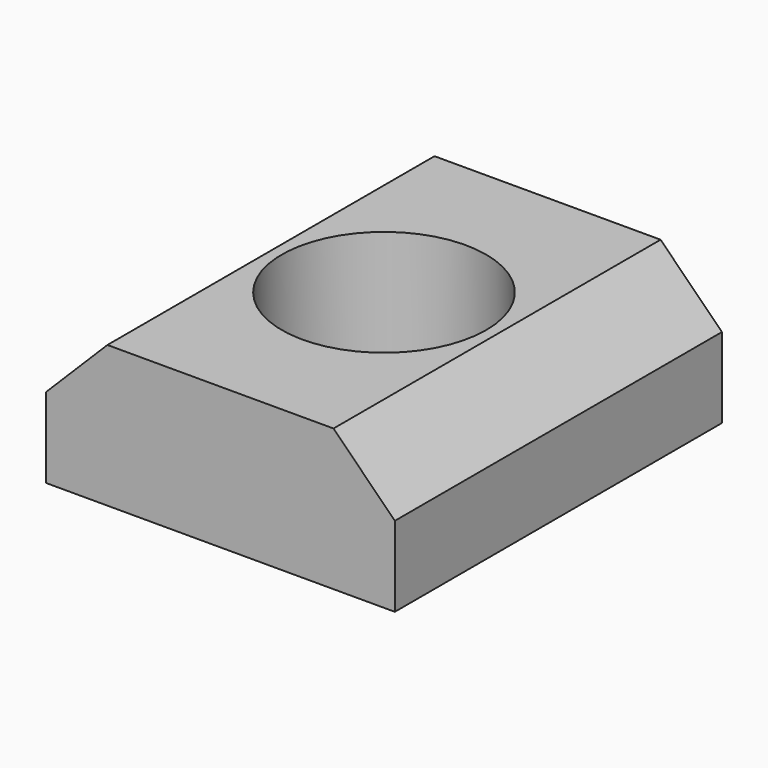
from build123d import *

# Parameters (mm, degrees)
F0_W     = 10.8331
F0_H     = 4.3942
F1_DEPTH = 12.7
F2_SIZE  = 1.905
F3_R     = 3.175
F4_DEPTH = 25.4


with BuildPart() as f1:
    # F0 (on Front) → F1 (new body)
    with BuildSketch(Plane.XZ):
        with Locations((5.41655, 2.1971)):
            Rectangle(F0_W, F0_H)
    extrude(amount=F1_DEPTH)

    # F2
    f2_edges = [f1.edges().sort_by_distance(p)[0] for p in [
        (10.8331, -6.35, 4.3942),
        (0, -6.35, 4.3942),
    ]]
    chamfer(f2_edges, length=F2_SIZE)

    # F3 (on face) → F4 (cut)
    with BuildSketch(Plane(origin=(0, 0, 0), x_dir=(1, 0, 0), z_dir=(0, 0, -1))):
        with Locations((5.41655, 6.35)):
            Circle(F3_R)
    extrude(amount=-F4_DEPTH, mode=Mode.SUBTRACT)


solid = f1.part
